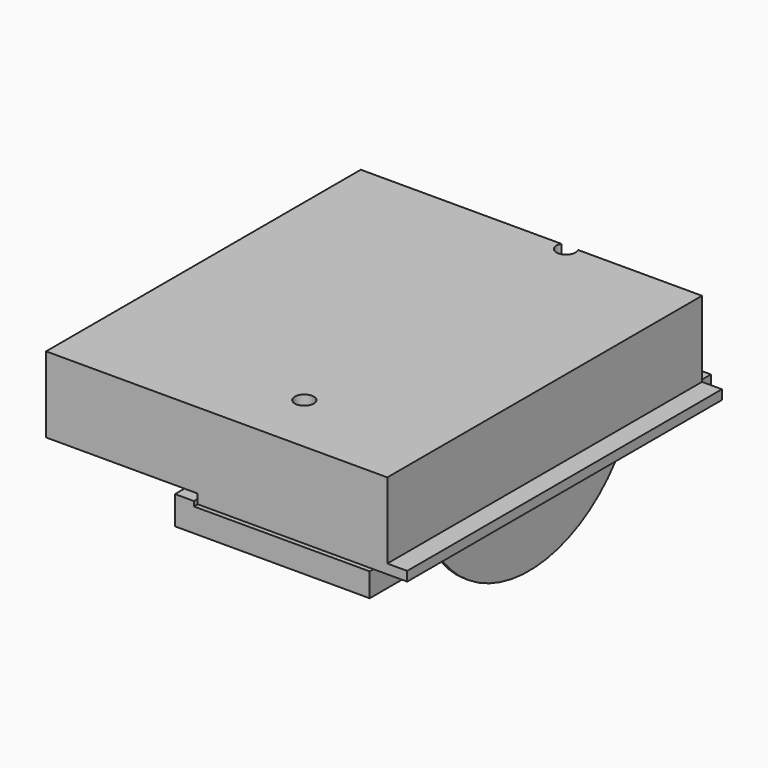
from build123d import *

# Parameters (mm, degrees)
F0_W            = 1.905
F0_H            = 60.96
F1_DEPTH        = 139.7
F1_DEPTH_BACK   = 123.825
F2_W            = 117.7544
F2_H            = 15.875
F3_DEPTH        = 142.875
F3_DEPTH_BACK   = 142.875
F6_DEPTH        = 1.905
F7_R            = 6.35
F8_DEPTH        = 57.15
F11_D           = 6.7564
F11_CSINK_D     = 13.4874
F11_CSINK_ANGLE = 82
F12_DEPTH       = 73.025
F14_DEPTH       = 12.7


with BuildPart() as f1:
    # F0 (on Front) → F1 (new body, two sides)
    with BuildSketch(Plane.XZ) as f1_sk:
        Polygon((0, 6.35), (0, 0), (108.2294, 0), (110.1344, 0), (140.335, 0), (140.335, 6.35), (127, 6.35), align=None)
        with Locations((109.1819, -30.48)):
            Rectangle(F0_W, F0_H)
        Polygon((-101.6, 6.35), (0, 6.35), (127, 6.35), (127, 57.15), (-101.6, 57.15), align=None)
    extrude(amount=F1_DEPTH)
    extrude(f1_sk.sketch, amount=-F1_DEPTH_BACK)

    # F5 (on face) → F6 (cut, through all)
    with BuildSketch(Plane.YZ.offset(110.1344)):
        with BuildLine():
            Line((-86.427675689, 0), (-139.7, 0))
            Line((-139.7, 0), (-139.7, -60.96))
            Line((-139.7, -60.96), (-139.7, -88.9))
            Line((-139.7, -88.9), (152.4, -88.9))
            Line((152.4, -88.9), (152.4, 0))
            Line((152.4, 0), (123.825, 0))
            Line((123.825, 0), (86.427675689, 0))
            ThreePointArc((86.427675689, 0), (0, -60.325), (-86.427675689, 0))
        make_face()
    extrude(amount=-F6_DEPTH, mode=Mode.SUBTRACT)

    # F7 (on face) → F8 (cut, through all)
    with BuildSketch(Plane(origin=(0, 0, 0), x_dir=(1, 0, 0), z_dir=(0, 0, -1))):
        with Locations((38.3794, -120.65)):
            Circle(F7_R)
        with Locations((38.3794, 98.425)):
            Circle(F7_R)
    extrude(amount=-F8_DEPTH, mode=Mode.SUBTRACT)


with BuildPart() as f3:
    # F2 (on Front) → F3 (new body, two sides)
    with BuildSketch(Plane.XZ) as f3_sk:
        with Locations((58.8772, -7.9375)):
            Rectangle(F2_W, F2_H)
        Polygon((0, -15.875), (0, 0), (0, 3.175), (-12.7, 3.175), (-12.7, -15.875), align=None)
    extrude(amount=F3_DEPTH)
    extrude(f3_sk.sketch, amount=-F3_DEPTH_BACK)

    # F11 (through all)
    with Locations(Plane(origin=(0, 0, -15.875), x_dir=(1, 0, 0), z_dir=(0, 0, -1))):
        with Locations((38.3794, -120.65), (38.3794, 98.425)):
            CounterSinkHole(F11_D / 2, F11_CSINK_D / 2, counter_sink_angle=F11_CSINK_ANGLE)

    # F4 (on face) → F12 (cut, through all)
    with BuildSketch(Plane(origin=(0, 0, -15.875), x_dir=(1, 0, 0), z_dir=(0, 0, -1))):
        with BuildLine():
            Line((112.3569, -85.725), (112.3569, 85.725))
            ThreePointArc((112.3569, 85.725), (111.4269640303, 87.9700640303), (109.1819, 88.9))
            ThreePointArc((109.1819, 88.9), (106.9368359697, 87.9700640303), (106.0069, 85.725))
            Line((106.0069, 85.725), (106.0069, -85.725))
            ThreePointArc((106.0069, -85.725), (106.9368359697, -87.9700640303), (109.1819, -88.9))
            ThreePointArc((109.1819, -88.9), (111.4269640303, -87.9700640303), (112.3569, -85.725))
        make_face()
    extrude(amount=-F12_DEPTH, mode=Mode.SUBTRACT)

    # F13 (on face) → F14 (cut, through all)
    with BuildSketch(Plane.YZ):
        Polygon((-38.1, 0), (0, 0), (38.1, 0), (38.1, 3.175), (0, 3.175), (-38.1, 3.175), align=None)
    extrude(amount=-F14_DEPTH, mode=Mode.SUBTRACT)


solid = Compound([f1.part, f3.part])
